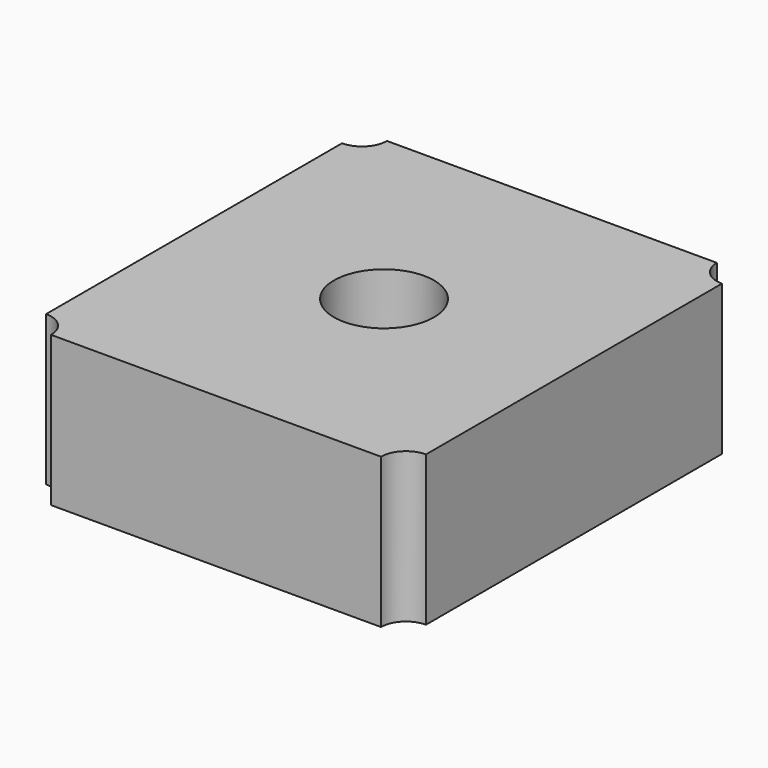
from build123d import *

# Parameters (mm, degrees)
F0_R     = 3.175
F1_DEPTH = 4.7625
F2_R     = 6.35
F3_DEPTH = 4.7625


with BuildPart() as f1:
    # F0 (on Top) → F1 (new body)
    with BuildSketch(Plane.XY):
        with BuildLine():
            Line((10.4775, 13.335), (-10.4775, 13.335))
            ThreePointArc((-10.4775, 13.335), (-10.942468, 12.212468), (-12.065, 11.7475))
            Line((-12.065, 11.7475), (-12.065, -11.7475))
            ThreePointArc((-12.065, -11.7475), (-10.942468, -12.212468), (-10.4775, -13.335))
            Line((-10.4775, -13.335), (10.4775, -13.335))
            ThreePointArc((10.4775, -13.335), (10.942468, -12.212468), (12.065, -11.7475))
            Line((12.065, -11.7475), (12.065, 11.7475))
            ThreePointArc((12.065, 11.7475), (10.942468, 12.212468), (10.4775, 13.335))
        make_face()
        Circle(F0_R, mode=Mode.SUBTRACT)
    extrude(amount=F1_DEPTH)

    # F2 (on face) → F3 (join)
    with BuildSketch(Plane(origin=(0, 0, 0), x_dir=(1, 0, 0), z_dir=(0, 0, -1))):
        with BuildLine():
            ThreePointArc((10.4775, -13.335), (10.942468, -12.212468), (12.065, -11.7475))
            Line((12.065, -11.7475), (12.065, 11.7475))
            ThreePointArc((12.065, 11.7475), (10.942468, 12.212468), (10.4775, 13.335))
            Line((10.4775, 13.335), (-10.4775, 13.335))
            ThreePointArc((-10.4775, 13.335), (-10.942468, 12.212468), (-12.065, 11.7475))
            Line((-12.065, 11.7475), (-12.065, -11.7475))
            ThreePointArc((-12.065, -11.7475), (-10.942468, -12.212468), (-10.4775, -13.335))
            Line((-10.4775, -13.335), (10.4775, -13.335))
        make_face()
        Circle(F2_R, mode=Mode.SUBTRACT)
    extrude(amount=F3_DEPTH)


solid = f1.part
